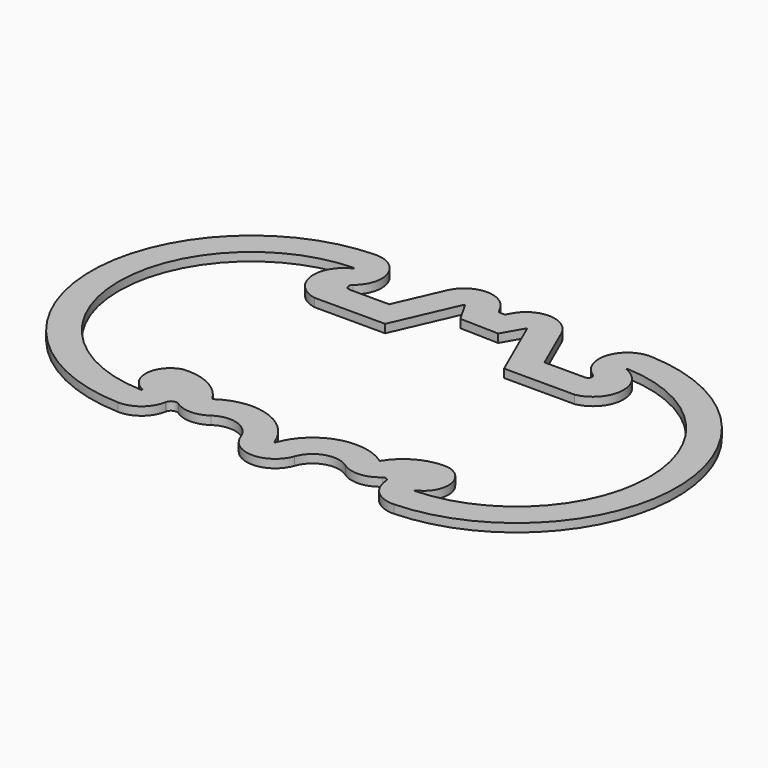
from build123d import *

# Parameters (mm, degrees)
F1_DEPTH = 1.2


with BuildPart() as f1:
    # F0 (on Top) → F1 (new body)
    with BuildSketch(Plane.XY):
        with BuildLine():
            ThreePointArc((-11.057271, 14.742629), (-11.634473, 15.191614), (-11.432224, 15.894354))
            ThreePointArc((-11.432224, 15.894354), (-10.153228, 20.506336), (-14.117182, 23.188365))
            ThreePointArc((-14.117182, 23.188365), (-36.512956, 0.2125), (-14.246818, -22.88902))
            ThreePointArc((-14.246818, -22.88902), (-11.548187, -21.994576), (-10.080089, -19.559965))
            ThreePointArc((-10.080089, -19.559965), (-10.072004, -19.503727), (-10.060345, -19.448119))
            ThreePointArc((-10.060345, -19.448119), (-9.547743, -18.841405), (-8.754742, -18.886272))
            ThreePointArc((-8.754742, -18.886272), (-8.700528, -18.919907), (-8.648865, -18.957342))
            ThreePointArc((-8.648865, -18.957342), (-6.352939, -19.617532), (-4.078768, -18.885911))
            ThreePointArc((-4.078768, -18.885911), (-0.715713, -18.386761), (1.721045, -20.75773))
            ThreePointArc((1.721045, -20.75773), (5.586952, -23.492169), (9.452858, -20.75773))
            ThreePointArc((9.452858, -20.75773), (11.889616, -18.386761), (15.252671, -18.885911))
            ThreePointArc((15.252671, -18.885911), (17.843085, -19.610271), (20.324967, -18.573352))
            ThreePointArc((20.324967, -18.573352), (20.860199, -18.525989), (21.184551, -18.954373))
            ThreePointArc((21.184551, -18.954373), (21.18943, -19.004364), (21.189767, -19.054592))
            ThreePointArc((21.189767, -19.054592), (22.528031, -21.829393), (25.420721, -22.88902))
            ThreePointArc((25.420721, -22.88902), (47.686792, 0.062182), (25.591536, 23.177874))
            ThreePointArc((25.591536, 23.177874), (21.499758, 20.276401), (23.278403, 15.586239))
            ThreePointArc((23.278403, 15.586239), (23.467753, 14.985609), (22.973846, 14.594884))
            ThreePointArc((22.973846, 14.594884), (22.937343, 14.593682), (22.90084, 14.594884))
            Line((22.90084, 14.594884), (17.09098, 14.594884))
            Line((17.09098, 14.594884), (14.143941, 21.317934))
            ThreePointArc((14.143941, 21.317934), (10.606114, 23.766142), (6.829072, 21.706071))
            Line((6.829072, 21.706071), (6.364495, 20.893062))
            Line((6.364495, 20.893062), (5.454447, 20.917279))
            Line((5.454447, 20.917279), (4.919283, 21.853817))
            ThreePointArc((4.919283, 21.853817), (1.142241, 23.913887), (-2.395586, 21.465679))
            Line((-2.395586, 21.465679), (-5.342625, 14.742629))
            Line((-5.342625, 14.742629), (-10.971048, 14.742629))
            ThreePointArc((-10.971048, 14.742629), (-11.01416, 14.741203), (-11.057271, 14.742629))
        make_face()
        with BuildLine():
            ThreePointArc((-14.110806, -18.891334), (-32.512973, 0.201246), (-14.003666, 19.189977))
            ThreePointArc((-14.003666, 19.189977), (-13.903576, 19.113297), (-13.958097, 18.999607))
            ThreePointArc((-13.958097, 18.999607), (-16.427445, 14.482007), (-12.888596, 10.74263))
            Line((-12.888596, 10.74263), (-2.728596, 10.74263))
            Line((-2.728596, 10.74263), (1.2679, 19.859795))
            ThreePointArc((1.2679, 19.859795), (1.354189, 19.919508), (1.446312, 19.869262))
            Line((1.446312, 19.869262), (3.098136, 16.978568))
            Line((3.098136, 16.978568), (8.650219, 16.830822))
            Line((8.650219, 16.830822), (10.302044, 19.721517))
            ThreePointArc((10.302044, 19.721517), (10.394167, 19.771763), (10.480455, 19.71205))
            Line((10.480455, 19.71205), (14.476952, 10.594885))
            Line((14.476952, 10.594885), (24.636952, 10.594885))
            ThreePointArc((24.636952, 10.594885), (28.19471, 14.507176), (25.386326, 18.987873))
            ThreePointArc((25.386326, 18.987873), (25.323767, 19.101427), (25.425881, 19.181307))
            ThreePointArc((25.425881, 19.181307), (43.686821, 0.077013), (25.284709, -18.891334))
            ThreePointArc((25.284709, -18.891334), (25.183808, -18.813608), (25.241076, -18.699842))
            ThreePointArc((25.241076, -18.699842), (27.330713, -15.158302), (24.636952, -12.051417))
            ThreePointArc((24.636952, -12.051417), (20.65623, -12.820988), (17.676245, -15.570182))
            ThreePointArc((17.676245, -15.570182), (17.611536, -15.615886), (17.533888, -15.600178))
            ThreePointArc((17.533888, -15.600178), (10.661063, -14.580103), (5.681242, -19.425476))
            ThreePointArc((5.681242, -19.425476), (5.586952, -19.49217), (5.492661, -19.425476))
            ThreePointArc((5.492661, -19.425476), (0.51284, -14.580103), (-6.359985, -15.600178))
            ThreePointArc((-6.359985, -15.600178), (-6.437633, -15.615886), (-6.502342, -15.570182))
            ThreePointArc((-6.502342, -15.570182), (-9.482327, -12.820988), (-13.463048, -12.051417))
            ThreePointArc((-13.463048, -12.051417), (-16.15681, -15.158302), (-14.067173, -18.699842))
            ThreePointArc((-14.067173, -18.699842), (-14.009905, -18.813608), (-14.110806, -18.891334))
        make_face(mode=Mode.SUBTRACT)
        with BuildLine():
            Line((-10.971048, 14.742629), (-11.057271, 14.742629))
            ThreePointArc((-11.057271, 14.742629), (-11.01416, 14.741203), (-10.971048, 14.742629))
        make_face()
        with BuildLine():
            ThreePointArc((-10.060345, -19.448119), (-10.072004, -19.503727), (-10.080089, -19.559965))
            ThreePointArc((-10.080089, -19.559965), (-10.06983, -19.50411), (-10.060345, -19.448119))
        make_face()
        with BuildLine():
            ThreePointArc((-8.648865, -18.957342), (-8.700528, -18.919907), (-8.754742, -18.886272))
            ThreePointArc((-8.754742, -18.886272), (-8.702079, -18.922219), (-8.648865, -18.957342))
        make_face()
        with BuildLine():
            Line((22.973846, 14.594884), (22.90084, 14.594884))
            ThreePointArc((22.90084, 14.594884), (22.937343, 14.593682), (22.973846, 14.594884))
        make_face()
        with BuildLine():
            ThreePointArc((21.189767, -19.054592), (21.18943, -19.004364), (21.184551, -18.954373))
            ThreePointArc((21.184551, -18.954373), (21.186852, -19.004498), (21.189767, -19.054592))
        make_face()
    extrude(amount=F1_DEPTH)


solid = f1.part
